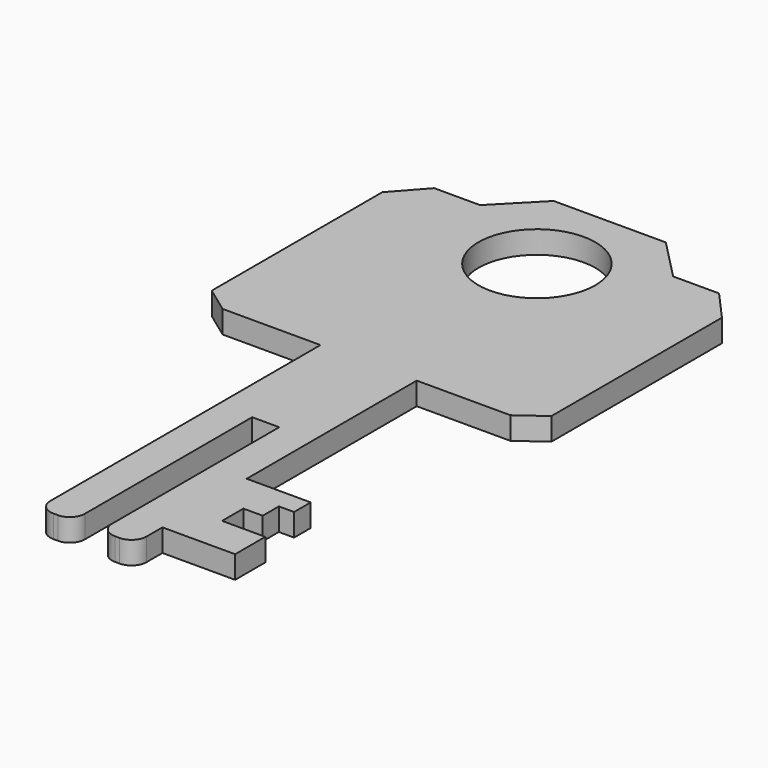
from build123d import *

# Parameters (mm, degrees)
F0_R     = 3.882179
F1_DEPTH = 1.5
F2_R     = 1


with BuildPart() as f1:
    # F0 (on Top) → F1 (new body)
    with BuildSketch(Plane.XY):
        Polygon((-37.373461, -28.317662), (-40.436558, -28.317662), (-40.436558, -51.763802), (-38.136558, -51.763802), (-38.136558, -36.865942), (-36.336558, -36.865942), (-36.336558, -51.763802), (-34.036558, -51.763802), (-34.036558, -49.443672), (-29.204809, -49.443672), (-29.204809, -46.940345), (-32.074479, -46.940345), (-32.074479, -45.169696), (-30.792285, -45.169696), (-30.792285, -43.826447), (-29.779991, -43.826447), (-29.779991, -42.443672), (-34.036558, -42.443672), (-34.036558, -28.317662), align=None)
        Polygon((-46.937965, -28.317662), (-40.436558, -28.317662), (-37.373461, -28.317662), (-34.036558, -28.317662), (-27.808957, -28.317662), (-26.08569, -27.064379), (-26.08569, -12.89645), (-27.905199, -10.8586), (-30.958039, -10.8586), (-33.645666, -8.108472), (-37.373461, -8.108472), (-41.101256, -8.108472), (-43.788882, -10.8586), (-46.841722, -10.8586), (-48.661232, -12.89645), (-48.661232, -27.064379), align=None)
        with Locations((-37.373461, -14.160549)):
            Circle(F0_R, mode=Mode.SUBTRACT)
    extrude(amount=F1_DEPTH)

    # F2
    f2_edges = [f1.edges().sort_by_distance(p)[0] for p in [
        (-38.136558, -51.763802, 0.75),
        (-36.336558, -51.763802, 0.75),
        (-40.436558, -51.763802, 0.75),
        (-34.036558, -51.763802, 0.75),
    ]]
    fillet(f2_edges, radius=F2_R)


solid = f1.part
